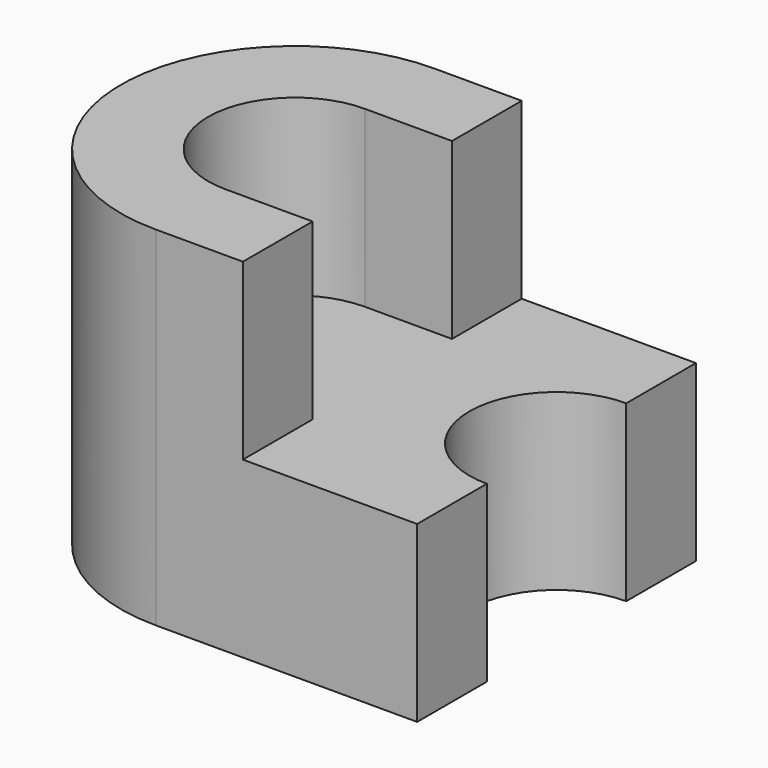
from build123d import *

# Parameters (mm, degrees)
F1_DEPTH = 20
F3_DEPTH = 20


with BuildPart() as f1:
    # F0 (on Top) → F1 (new body)
    with BuildSketch(Plane.XY):
        with BuildLine():
            ThreePointArc((0, 40), (-20, 20), (0, 0))
            Line((0, 0), (30, 0))
            Line((30, 0), (30, 10))
            ThreePointArc((30, 10), (20, 20), (30, 30))
            Line((30, 30), (30, 40))
            Line((30, 40), (0, 40))
        make_face()
    extrude(amount=F1_DEPTH)

    # F2 (on face) → F3 (join)
    with BuildSketch(Plane.XY.offset(20)):
        with BuildLine():
            Line((10, 40), (0, 40))
            ThreePointArc((0, 40), (-20, 20), (0, 0))
            Line((0, 0), (10, 0))
            Line((10, 0), (10, 10))
            Line((10, 10), (0, 10))
            ThreePointArc((0, 10), (-10, 20), (0, 30))
            Line((0, 30), (10, 30))
            Line((10, 30), (10, 40))
        make_face()
    extrude(amount=F3_DEPTH)


solid = f1.part
